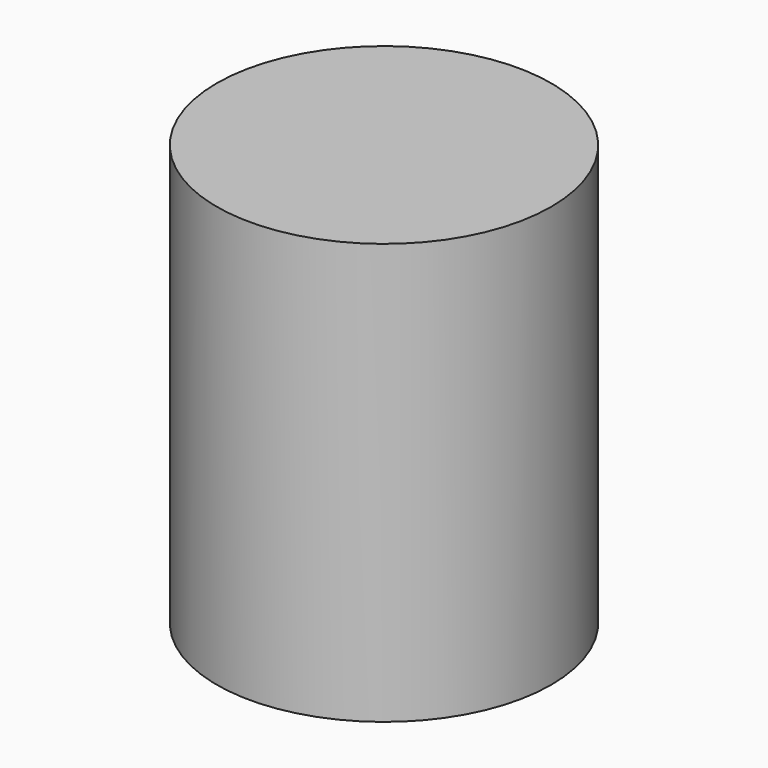
from build123d import *

# Parameters (mm, degrees)
F0_W = 47.09366
F0_H = 118.484065


with BuildPart() as f1:
    # F0 (on Front) → F1 (revolve)
    with BuildSketch(Plane.XZ):
        with Locations((-23.54683, -16.797729)):
            Rectangle(F0_W, F0_H)
    revolve(axis=Axis((0, 0, 1.5e-05), (0, 0, -1)))


solid = f1.part
